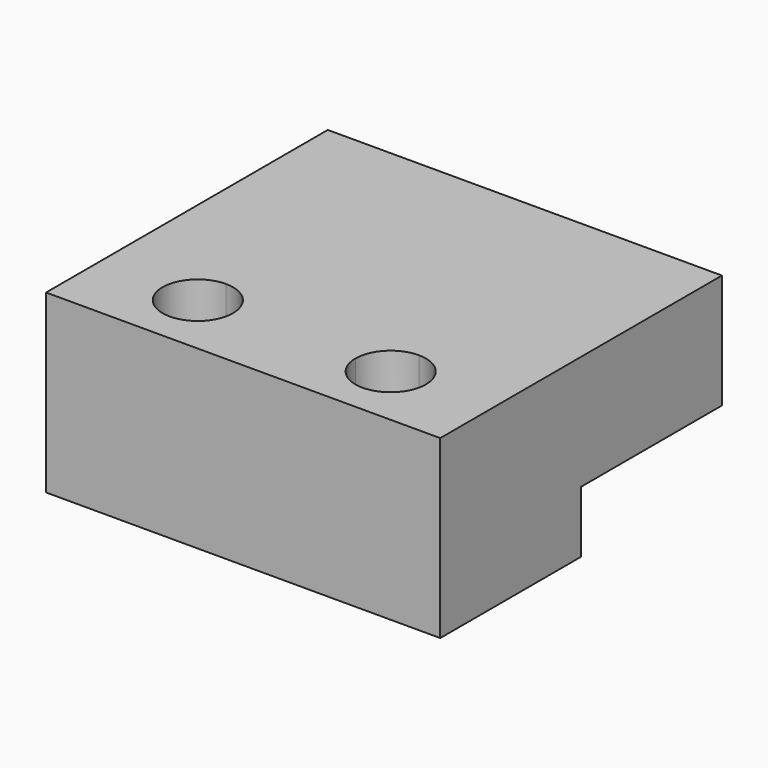
from build123d import *

# Parameters (mm, degrees)
F0_W     = 32.8638516366
F0_H     = 19.1183499992
F1_DEPTH = 30
F2_DEPTH = 30
F3_DEPTH = 3
F4_DEPTH = 10.5


with BuildPart() as f1:
    # F0 (on Top) → F1 (new body)
    with BuildSketch(Plane.XY):
        Polygon((33.5817799435, 0), (33.5817799435, 30), (-33.5817799435, 30), (-33.5817799435, 0), (-16.4319258183, 0), (-16.4319258183, 19.1183499992), (16.4319258183, 19.1183499992), (16.4319258183, 0), align=None)
        with Locations((0, 9.5591749996)):
            Rectangle(F0_W, F0_H)
    extrude(amount=F1_DEPTH)

    # F0 (on Top) → F2 (join)
    with BuildSketch(Plane.XY):
        with BuildLine():
            Line((16.4319258183, -13.1183499992), (16.4319258183, 0))
            Line((16.4319258183, 0), (-16.4319258183, 0))
            Line((-16.4319258183, 0), (-16.4319258183, -13.1183499992))
            ThreePointArc((-16.4319258183, -13.1183499992), (-12.1892851312, -14.8757093121), (-10.4319258183, -19.1183499992))
            Line((-10.4319258183, -19.1183499992), (10.4319258183, -19.1183499992))
            ThreePointArc((10.4319258183, -19.1183499992), (12.1892851312, -14.8757093121), (16.4319258183, -13.1183499992))
        make_face()
        with BuildLine():
            Line((33.5817799435, -30), (33.5817799435, 0))
            Line((33.5817799435, 0), (16.4319258183, 0))
            Line((16.4319258183, 0), (16.4319258183, -13.1183499992))
            ThreePointArc((16.4319258183, -13.1183499992), (20.6745665054, -14.8757093121), (22.4319258183, -19.1183499992))
            ThreePointArc((22.4319258183, -19.1183499992), (16.4319258183, -25.1183499992), (10.4319258183, -19.1183499992))
            Line((10.4319258183, -19.1183499992), (-10.4319258183, -19.1183499992))
            ThreePointArc((-10.4319258183, -19.1183499992), (-20.6745665054, -23.3609906863), (-16.4319258183, -13.1183499992))
            Line((-16.4319258183, -13.1183499992), (-16.4319258183, 0))
            Line((-16.4319258183, 0), (-33.5817799435, 0))
            Line((-33.5817799435, 0), (-33.5817799435, -30))
            Line((-33.5817799435, -30), (33.5817799435, -30))
        make_face()
    extrude(amount=F2_DEPTH)

    # F0 (on Top) → F3 (join)
    with BuildSketch(Plane.XY):
        with BuildLine():
            Line((-16.4319258183, -17.1183499992), (-16.4319258183, -13.1183499992))
            ThreePointArc((-16.4319258183, -13.1183499992), (-20.6745665054, -23.3609906863), (-10.4319258183, -19.1183499992))
            Line((-10.4319258183, -19.1183499992), (-14.4319258183, -19.1183499992))
            ThreePointArc((-14.4319258183, -19.1183499992), (-17.8461393807, -20.5325635616), (-16.4319258183, -17.1183499992))
        make_face()
        with BuildLine():
            ThreePointArc((-10.4319258183, -19.1183499992), (-12.1892851312, -14.8757093121), (-16.4319258183, -13.1183499992))
            Line((-16.4319258183, -13.1183499992), (-16.4319258183, -17.1183499992))
            ThreePointArc((-16.4319258183, -17.1183499992), (-15.017712256, -17.7041364368), (-14.4319258183, -19.1183499992))
            Line((-14.4319258183, -19.1183499992), (-10.4319258183, -19.1183499992))
        make_face()
        with BuildLine():
            Line((16.4319258183, -17.1183499992), (16.4319258183, -13.1183499992))
            ThreePointArc((16.4319258183, -13.1183499992), (12.1892851312, -14.8757093121), (10.4319258183, -19.1183499992))
            Line((10.4319258183, -19.1183499992), (14.4319258183, -19.1183499992))
            ThreePointArc((14.4319258183, -19.1183499992), (15.017712256, -17.7041364368), (16.4319258183, -17.1183499992))
        make_face()
        with BuildLine():
            ThreePointArc((22.4319258183, -19.1183499992), (20.6745665054, -14.8757093121), (16.4319258183, -13.1183499992))
            Line((16.4319258183, -13.1183499992), (16.4319258183, -17.1183499992))
            ThreePointArc((16.4319258183, -17.1183499992), (17.8461393807, -17.7041364368), (18.4319258183, -19.1183499992))
            ThreePointArc((18.4319258183, -19.1183499992), (16.4319258183, -21.1183499992), (14.4319258183, -19.1183499992))
            Line((14.4319258183, -19.1183499992), (10.4319258183, -19.1183499992))
            ThreePointArc((10.4319258183, -19.1183499992), (16.4319258183, -25.1183499992), (22.4319258183, -19.1183499992))
        make_face()
    extrude(amount=F3_DEPTH)

    # F0 (on Top) → F4 (cut)
    with BuildSketch(Plane.XY):
        Polygon((33.5817799435, 0), (33.5817799435, 30), (-33.5817799435, 30), (-33.5817799435, 0), (-16.4319258183, 0), (-16.4319258183, 19.1183499992), (16.4319258183, 19.1183499992), (16.4319258183, 0), align=None)
        with Locations((0, 9.5591749996)):
            Rectangle(F0_W, F0_H)
    extrude(amount=F4_DEPTH, mode=Mode.SUBTRACT)


solid = f1.part
